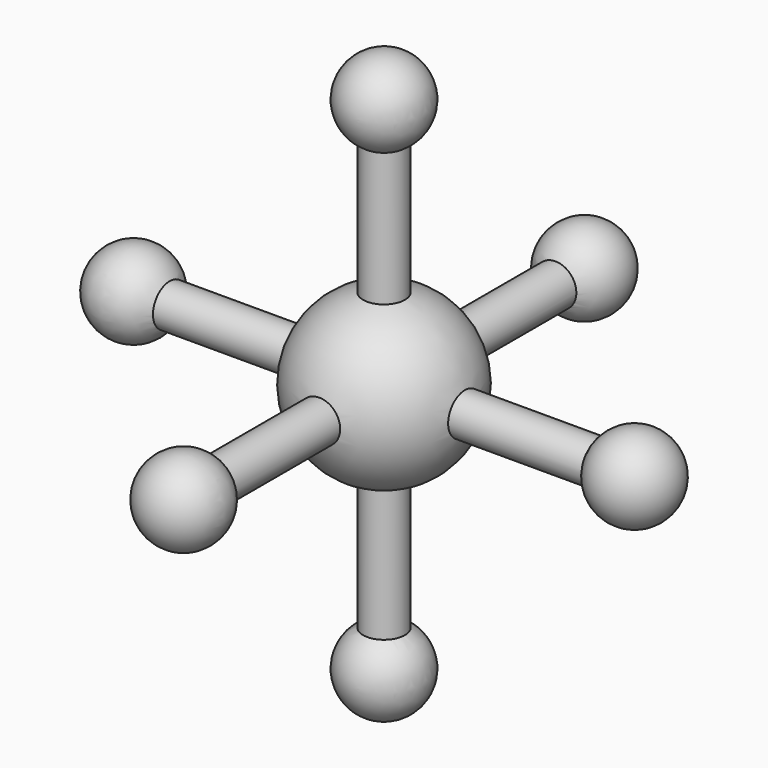
from build123d import *

# Parameters (mm, degrees)
F2_R      = 6.35
F3_DEPTH  = 76.2
F4_DEPTH  = 76.2
F5_R      = 6.35
F6_DEPTH  = 76.2
F7_DEPTH  = 76.2
F8_R      = 6.35
F9_DEPTH  = 76.2
F10_DEPTH = 76.2


with BuildPart() as f1:
    # F0 (on Front) → F1 (revolve)
    with BuildSketch(Plane.XZ):
        with BuildLine():
            Line((0, 25.4), (0, 0))
            Line((0, 0), (0, -25.4))
            ThreePointArc((0, -25.4), (25.4, 0), (0, 25.4))
        make_face()
    revolve(axis=Axis((0, 0, 12.7), (0, 0, 1)))

    # F2 (on Right) → F3 (join)
    with BuildSketch(Plane.YZ):
        Circle(F2_R)
    extrude(amount=F3_DEPTH)

    # F2 (on Right) → F4 (join)
    with BuildSketch(Plane.YZ):
        Circle(F2_R)
    extrude(amount=-F4_DEPTH)

    # F5 (on Top) → F6 (join)
    with BuildSketch(Plane.XY):
        Circle(F5_R)
    extrude(amount=F6_DEPTH)

    # F5 (on Top) → F7 (join)
    with BuildSketch(Plane.XY):
        Circle(F5_R)
    extrude(amount=-F7_DEPTH)

    # F8 (on Front) → F9 (join)
    with BuildSketch(Plane.XZ):
        Circle(F8_R)
    extrude(amount=F9_DEPTH)

    # F8 (on Front) → F10 (join)
    with BuildSketch(Plane.XZ):
        Circle(F8_R)
    extrude(amount=-F10_DEPTH)

    # F11 (on face) → F12 (revolve)
    with BuildSketch(Plane.YZ.offset(76.2)):
        with BuildLine():
            Line((0, 12.7), (0, 0))
            Line((0, 0), (0, -12.7))
            ThreePointArc((0, -12.7), (12.7, 0), (0, 12.7))
        make_face()
    revolve(axis=Axis((76.2, 0, 6.35), (0, 0, 1)))

    # F13 (on face) → F14 (revolve)
    with BuildSketch(Plane(origin=(0, 0, -76.2), x_dir=(1, 0, 0), z_dir=(0, 0, -1))):
        with BuildLine():
            Line((0, 12.7), (0, 0))
            Line((0, 0), (0, -12.7))
            ThreePointArc((0, -12.7), (12.7, 0), (0, 12.7))
        make_face()
    revolve(axis=Axis((0, -6.35, -76.2), (0, -1, 0)))

    # F15 (on face) → F16 (revolve)
    with BuildSketch(Plane(origin=(0, 76.2, 0), x_dir=(-1, 0, 0), z_dir=(0, 1, 0))):
        with BuildLine():
            Line((0, 12.7), (0, 0))
            Line((0, 0), (0, -12.7))
            ThreePointArc((0, -12.7), (12.7, 0), (0, 12.7))
        make_face()
    revolve(axis=Axis((0, 76.2, 6.35), (0, 0, 1)))

    # F17 (on face) → F18 (revolve)
    with BuildSketch(Plane.XY.offset(76.2)):
        with BuildLine():
            Line((0, 12.7), (0, 0))
            Line((0, 0), (0, -12.7))
            ThreePointArc((0, -12.7), (12.7, 0), (0, 12.7))
        make_face()
    revolve(axis=Axis((0, 6.35, 76.2), (0, 1, 0)))

    # F19 (on face) → F20 (revolve)
    with BuildSketch(Plane.XZ.offset(76.2)):
        with BuildLine():
            Line((0, 12.7), (0, 0))
            Line((0, 0), (0, -12.7))
            ThreePointArc((0, -12.7), (12.7, 0), (0, 12.7))
        make_face()
    revolve(axis=Axis((0, -76.2, 6.35), (0, 0, 1)))

    # F21 (on face) → F22 (revolve)
    with BuildSketch(Plane(origin=(-76.2, 0, 0), x_dir=(0, -1, 0), z_dir=(-1, 0, 0))):
        with BuildLine():
            Line((0, 12.7), (0, 0))
            Line((0, 0), (0, -12.7))
            ThreePointArc((0, -12.7), (12.7, 0), (0, 12.7))
        make_face()
    revolve(axis=Axis((-76.2, 0, 6.35), (0, 0, 1)))


solid = f1.part
